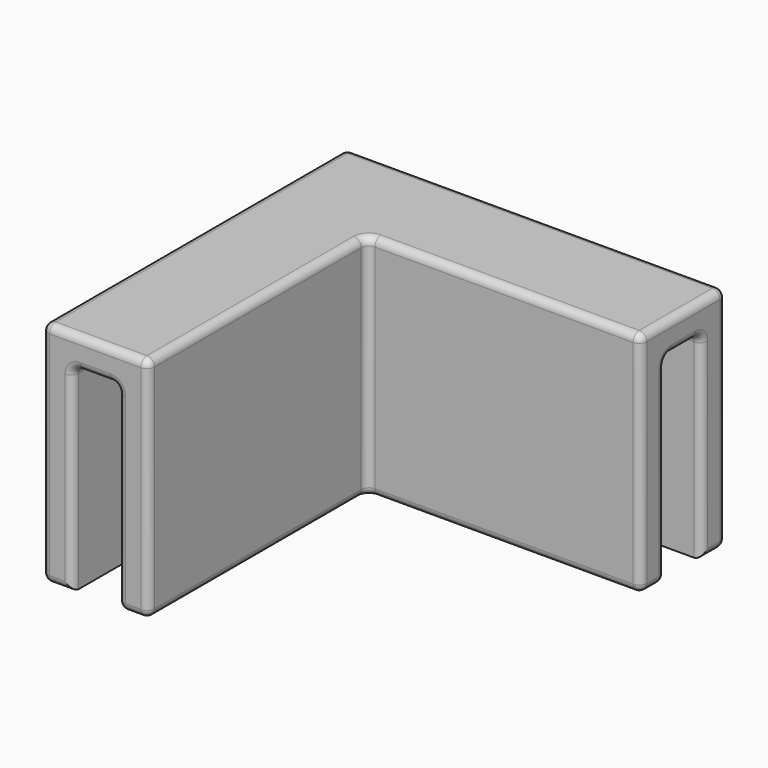
from build123d import *

# Parameters (mm, degrees)
PAD_DEPTH    = 15
POCKET_DEPTH = 13
FILLET_R     = 0.5


with BuildPart() as part:
    # Sketch → Pad (new body)
    with BuildSketch(Plane.XY):
        Polygon((0, 0), (0, -18), (-7, -18), (-7, 7), (18, 7), (18, 0), align=None)
    extrude(amount=PAD_DEPTH)

    # Sketch001 → Pocket (cut)
    with BuildSketch(Plane.XY):
        Polygon((-2, 2), (-2, -20), (-5, -20), (-5, 5), (20, 5), (20, 2), align=None)
    extrude(amount=POCKET_DEPTH, mode=Mode.SUBTRACT)

    # Fillet
    fillet_edges = [part.edges().sort_by_distance(p)[0] for p in [
        (0, -9, 15),
        (-3.5, -18, 15),
        (-7, -5.5, 15),
        (5.5, 7, 15),
        (18, 3.5, 15),
        (9, 0, 15),
        (-7, -18, 7.5),
        (-7, 7, 7.5),
        (-7, -5.5, 0),
        (0, 0, 7.5),
        (0, -18, 7.5),
        (0, -9, 0),
        (18, 0, 7.5),
        (9, 0, 0),
        (18, 7, 7.5),
        (5.5, 7, 0),
        (-1, -18, 0),
        (-2, -18, 6.5),
        (-3.5, -18, 13),
        (-5, -18, 6.5),
        (-6, -18, 0),
        (18, 6, 0),
        (18, 5, 6.5),
        (18, 3.5, 13),
        (18, 2, 6.5),
        (18, 1, 0),
        (-2, -8, 13),
        (-5, -6.5, 13),
        (6.5, 5, 13),
        (8, 2, 13),
        (-2, -8, 0),
        (-2, 2, 6.5),
        (8, 2, 0),
    ]]
    fillet(fillet_edges, radius=FILLET_R)


solid = part.part
